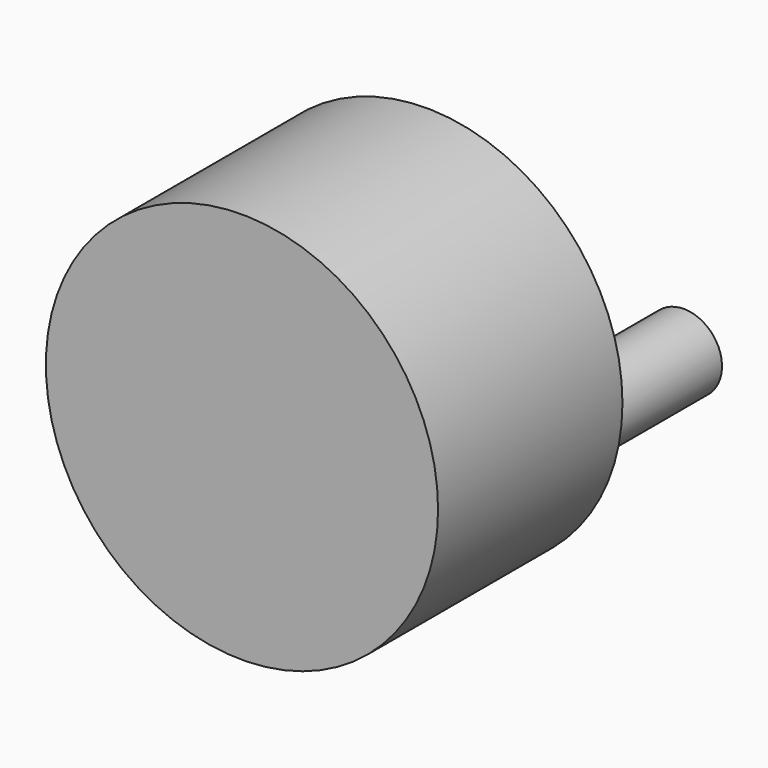
from build123d import *

# Parameters (mm, degrees)
F0_R     = 52.081796
F1_DEPTH = 61.214
F2_R     = 10.120274
F2_R_2   = 7.939909
F3_DEPTH = 34.544


with BuildPart() as f1:
    # F0 (on Front) → F1 (new body)
    with BuildSketch(Plane.XZ):
        Circle(F0_R)
    extrude(amount=F1_DEPTH)

    # F2 (on face) → F3 (join)
    with BuildSketch(Plane(origin=(0, 0, 0), x_dir=(-1, 0, 0), z_dir=(0, 1, 0))):
        with Locations((-40.758807, -5.819744)):
            Circle(F2_R)
        with Locations((-40.758807, -5.819744)):
            Circle(F2_R_2, mode=Mode.SUBTRACT)
    extrude(amount=F3_DEPTH)


solid = f1.part
